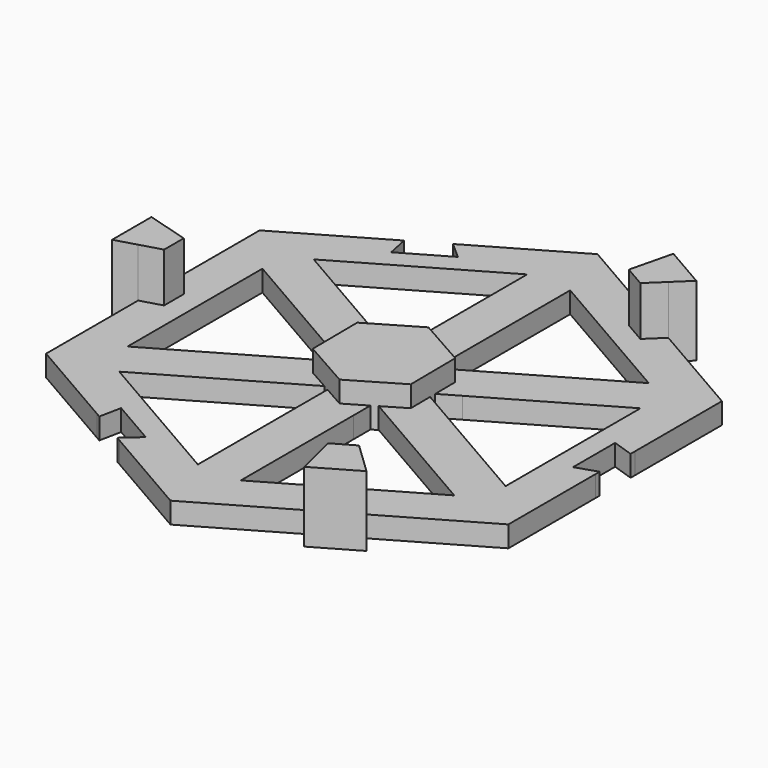
from build123d import *

# Parameters (mm, degrees)
F1_DEPTH = 1.5
F2_DEPTH = 5
F3_ANGLE = 120
F4_ANGLE = 120
F6_DEPTH = 3


with BuildPart() as f1:
    # F0 (on Top) → F1 (new body)
    with BuildSketch(Plane.XY):
        Polygon((4.7835907286, 2.7618073949), (16.4544826719, 9.5), (9.3638996784, 13.59375), (8.2350135643, 12.5134618943), (6.7194691076, 13.3884618943), (7.0905829935, 14.90625), (0, 19), (0, 5.5236147897), (1.5310889132, 4.6396401935), (1.5310889132, 14.6519237886), (11.9233937587, 8.6519237886), (3.2525018154, 3.6457819911), align=None)
        Polygon((0, 0), (4.7835907286, 2.7618073949), (3.2525018154, 3.6457819911), (1.5310889132, 2.6519237886), (1.5310889132, 4.6396401935), (0, 5.5236147897), align=None)
        Polygon((-4.7835907286, 2.7618073949), (0, 0), (0, 5.5236147897), (-1.5310889132, 4.6396401935), (-1.5310889132, 2.6519237886), (-3.2525018154, 3.6457819911), align=None)
        Polygon((-1.5310889132, 4.6396401935), (0, 5.5236147897), (0, 19), (-6.7116968793, 15.125), (-7.0364564057, 14.9375), (-5.8534437039, 13.8884618943), (-9.101038968, 12.0134618943), (-9.4180262662, 13.5625), (-9.7427857926, 13.375), (-16.4544826719, 9.5), (-4.7835907286, 2.7618073949), (-3.2525018154, 3.6457819911), (-11.9233937587, 8.6519237886), (-1.5310889132, 14.6519237886), align=None)
    extrude(amount=F1_DEPTH)

    # F0 (on Top) → F2 (join)
    with BuildSketch(Plane.XY):
        Polygon((8.2350135643, 12.5134618943), (9.3638996784, 13.59375), (9.0888552775, 13.7525469589), (8.1894266762, 12.8918383296), (7.0699461568, 13.5381707088), (7.3656273944, 14.7474530411), (7.0905829935, 14.90625), (6.7194691076, 13.3884618943), align=None)
        Polygon((8.1894266762, 12.8918383296), (9.0888552775, 13.7525469589), (7.3656273944, 14.7474530411), (7.0699461568, 13.5381707088), align=None)
        Polygon((7.3656273944, 14.7474530411), (9.0888552775, 13.7525469589), (9.9882838789, 14.6132555882), (7.6613086319, 15.9567353735), align=None)
        Polygon((9.0888552775, 13.7525469589), (9.3638996784, 13.59375), (10.4927857926, 14.6740381057), (7.4616968793, 16.4240381057), (7.0905829935, 14.90625), (7.3656273944, 14.7474530411), (7.6613086319, 15.9567353735), (9.9882838789, 14.6132555882), align=None)
    extrude(amount=F2_DEPTH)


with BuildPart() as f3_1:
    # F3: copy of F1
    add(f1.part.rotate(Axis((0, 0, 0.75), (0, 0, -1)), F3_ANGLE))


with BuildPart() as f4_1:
    # F4: copy of F3_1
    add(f3_1.part.rotate(Axis((0, 0, 0.75), (0, 0, -1)), F4_ANGLE))


with BuildPart() as f1_1:
    add(f1.part)

    add(f3_1.part)  # F6 merges F3_1

    add(f4_1.part)  # F6 merges F4_1
    # F5 (on Top) → F6 (join)
    with BuildSketch(Plane.XY):
        Polygon((0.0358819761, -3.9998390572), (3.4819032227, -1.9688448258), (3.4460212466, 2.0309942315), (-0.0358819761, 3.9998390572), (-3.4819032227, 1.9688448258), (-3.4460212466, -2.0309942315), align=None)
    extrude(amount=F6_DEPTH)


solid = f1_1.part
